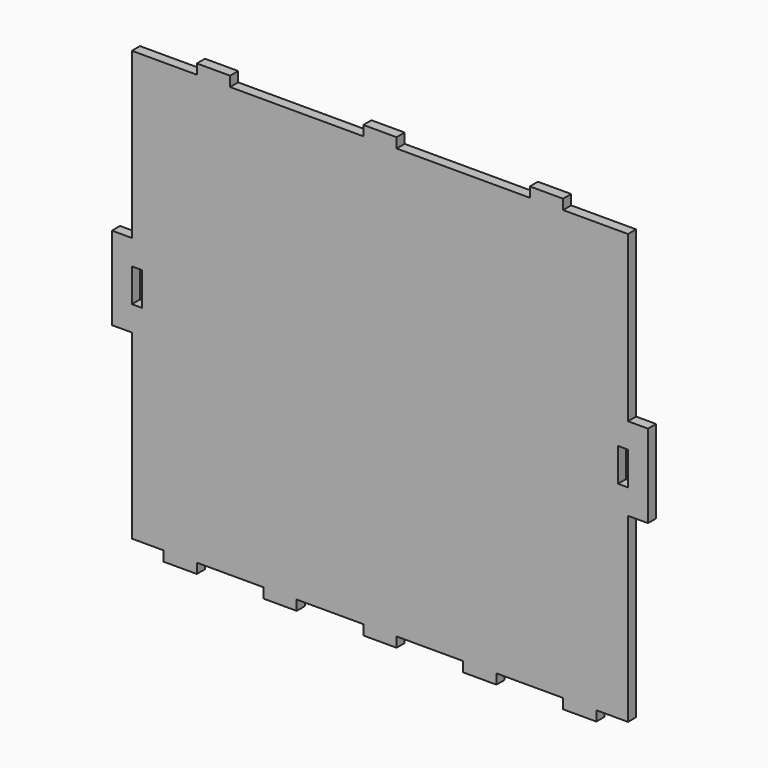
from build123d import *

# Parameters (mm, degrees)
F0_W     = 3.000019
F0_H     = 10.000005
F0_W_2   = 2.999994
F1_DEPTH = 3.048


with BuildPart() as f1:
    # F0 (on Front) → F1 (new body)
    with BuildSketch(Plane.XZ):
        Polygon((-74.500003, 64.499998), (-74.500003, 14.999995), (-80.499991, 14.999995), (-80.499991, -10.000005), (-74.500003, -10.000005), (-74.500003, -64.500023), (-64.999997, -64.500023), (-64.999997, -67.500017), (-54.999992, -67.500017), (-54.999992, -64.500023), (-34.999981, -64.500023), (-34.999981, -67.500017), (-25.000001, -67.500017), (-25.000001, -64.500023), (-4.99999, -64.500023), (-4.99999, -67.500017), (5.000015, -67.500017), (5.000015, -64.500023), (25.000001, -64.500023), (25.000001, -67.500017), (35.000006, -67.500017), (35.000006, -64.500023), (55.000017, -64.500023), (55.000017, -67.500017), (64.999997, -67.500017), (64.999997, -64.500023), (74.500003, -64.500023), (74.500003, -10.000005), (80.500017, -10.000005), (80.500017, 14.999995), (74.500003, 14.999995), (74.500003, 64.499998), (55.000017, 64.499998), (55.000017, 67.499992), (45.000012, 67.499992), (45.000012, 64.499998), (5.000015, 64.499998), (5.000015, 67.499992), (-4.99999, 67.499992), (-4.99999, 64.499998), (-44.999986, 64.499998), (-44.999986, 67.499992), (-54.999992, 67.499992), (-54.999992, 64.499998), align=None)
        with Locations((-72.999993, 2.499982)):
            Rectangle(F0_W, F0_H, mode=Mode.SUBTRACT)
        with Locations((73.000006, 2.499982)):
            Rectangle(F0_W_2, F0_H, mode=Mode.SUBTRACT)
    extrude(amount=F1_DEPTH)


solid = f1.part
